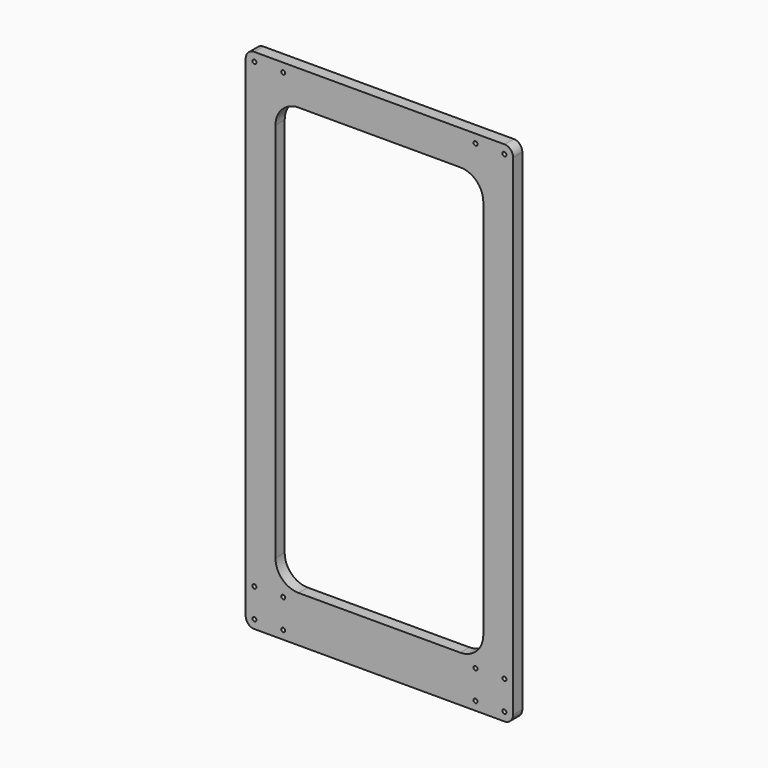
from build123d import *

# Parameters (mm, degrees)
F0_W     = 294.0685
F0_H     = 558.8
F1_DEPTH = 12.7
F3_D     = 4.4
F4_R     = 9.525
F6_DEPTH = 12.701


with BuildPart() as f1:
    # F0 (on Front) → F1 (new body)
    with BuildSketch(Plane.XZ):
        Rectangle(F0_W, F0_H)
    extrude(amount=F1_DEPTH)

    # F3 (through all)
    with Locations(Plane.XZ.offset(12.7)):
        with Locations((-137.50925, 269.875), (-105.75925, 269.875), (105.75925, 269.875), (137.50925, 269.875), (105.75925, -238.125), (137.50925, -238.125), (137.50925, -269.875), (105.75925, -269.875), (-105.75925, -269.875), (-137.50925, -269.875), (-137.50925, -238.125), (-105.75925, -238.125)):
            Hole(F3_D / 2)

    # F4
    f4_edges = [f1.edges().sort_by_distance(p)[0] for p in [
        (147.03425, -6.35, 279.4),
        (147.03425, -6.35, -279.4),
        (-147.03425, -6.35, -279.4),
        (-147.03425, -6.35, 279.4),
    ]]
    fillet(f4_edges, radius=F4_R)

    # F5 (on face) → F6 (cut, through all)
    with BuildSketch(Plane.XZ.offset(12.7)):
        with BuildLine():
            Line((88.9, 241.3), (-88.9, 241.3))
            ThreePointArc((-88.9, 241.3), (-106.8605122421, 233.8605122421), (-114.3, 215.9))
            Line((-114.3, 215.9), (-114.3, -203.2))
            ThreePointArc((-114.3, -203.2), (-106.8605122421, -221.1605122421), (-88.9, -228.6))
            Line((-88.9, -228.6), (88.9, -228.6))
            ThreePointArc((88.9, -228.6), (106.8605122421, -221.1605122421), (114.3, -203.2))
            Line((114.3, -203.2), (114.3, 215.9))
            ThreePointArc((114.3, 215.9), (106.8605122421, 233.8605122421), (88.9, 241.3))
        make_face()
    extrude(amount=-F6_DEPTH, mode=Mode.SUBTRACT)


solid = f1.part
